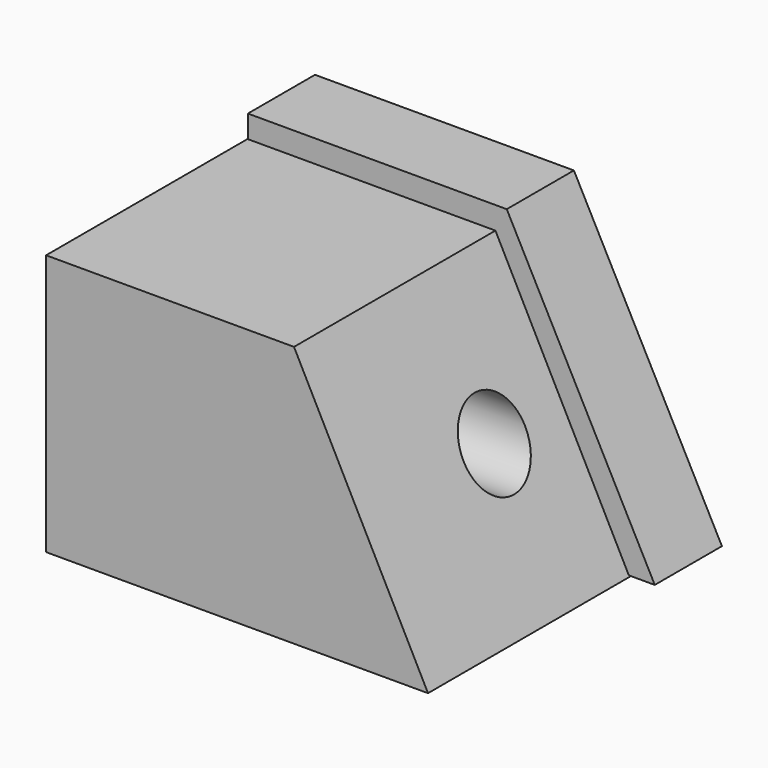
from build123d import *

# Parameters (mm, degrees)
F1_DEPTH = 101.6
F2_R     = 11.6260505805
F3_DEPTH = 88.9
F5_DEPTH = 25.4


with BuildPart() as f1:
    # F0 (on Front) → F1 (new body)
    with BuildSketch(Plane.XZ):
        Polygon((39.3597595394, 28.3906441182), (-35.6722733648, 28.3906441182), (-35.6722733648, -50.6975799799), (39.3597595394, -50.6975799799), (79.9182447382, -50.6975799799), align=None)
    extrude(amount=F1_DEPTH)

    # F2 (on Right) → F3 (cut, symmetric)
    with BuildSketch(Plane.YZ):
        with Locations((-51.2301623821, -11.2456455827)):
            Circle(F2_R)
    extrude(amount=F3_DEPTH, both=True, mode=Mode.SUBTRACT)

    # F4 (on Front) → F5 (join)
    with BuildSketch(Plane.XZ):
        Polygon((-35.5649143457, 35.2117754519), (-35.5649143457, -50.3288730979), (87.5841230154, -50.3288730979), (42.7858941257, 35.2117754519), align=None)
    extrude(amount=F5_DEPTH)


solid = f1.part
